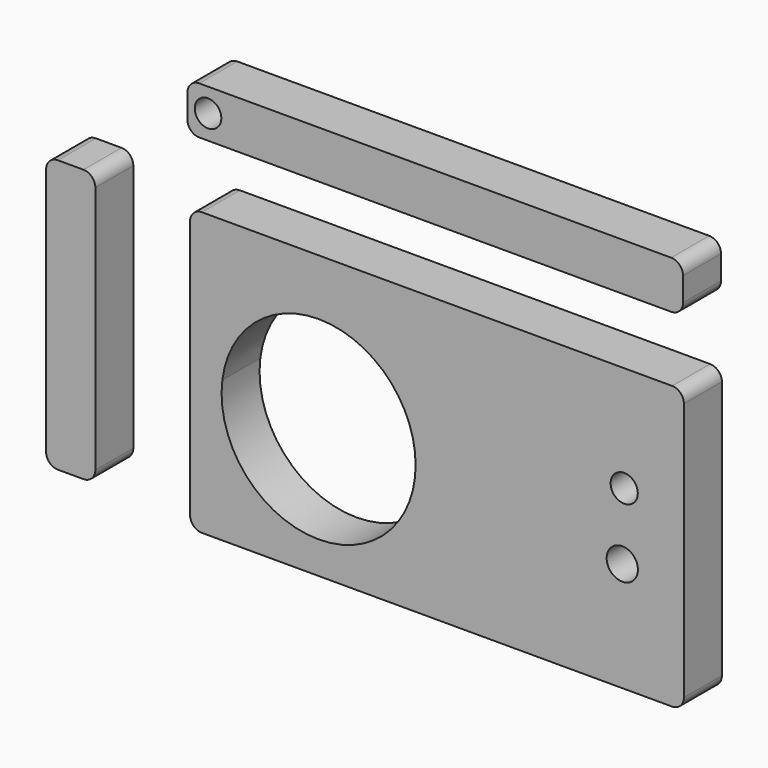
from build123d import *

# Parameters (mm, degrees)
F0_R     = 8.365548
F0_R_2   = 7.271705
F0_R_3   = 7.111959
F1_DEPTH = 25.4


with BuildPart() as f1:
    # F0 (on Front) → F1 (new body)
    with BuildSketch(Plane.XZ):
        with BuildLine():
            ThreePointArc((-102.131441, -52.164263), (-100.271569, -56.654392), (-95.781441, -58.514263))
            Line((-95.781441, -58.514263), (155.758898, -58.514263))
            ThreePointArc((155.758898, -58.514263), (160.249026, -56.654392), (162.108898, -52.164263))
            Line((162.108898, -52.164263), (162.108898, 86.172502))
            ThreePointArc((162.108898, 86.172502), (160.249026, 90.66263), (155.758898, 92.522502))
            Line((155.758898, 92.522502), (-95.781441, 92.522502))
            ThreePointArc((-95.781441, 92.522502), (-100.271569, 90.66263), (-102.131441, 86.172502))
            Line((-102.131441, 86.172502), (-102.131441, 17.004119))
            Line((-102.131441, 17.004119), (-102.131441, -52.164263))
        make_face()
        with BuildLine():
            ThreePointArc((18.548641, 10.627234), (-36.553258, -41.181775), (-84.872968, 17.004119))
            ThreePointArc((-84.872968, 17.004119), (-30.164263, 62.436244), (18.548641, 10.627234))
        make_face(mode=Mode.SUBTRACT)
        with Locations((129.1098, 0)):
            Circle(F0_R, mode=Mode.SUBTRACT)
        with Locations((130.15075, 35.959888)):
            Circle(F0_R_2, mode=Mode.SUBTRACT)
        with BuildLine():
            ThreePointArc((-152.816415, 85.588384), (-154.676287, 90.078512), (-159.166415, 91.938384))
            Line((-159.166415, 91.938384), (-172.819238, 91.938384))
            ThreePointArc((-172.819238, 91.938384), (-177.309366, 90.078512), (-179.169238, 85.588384))
            Line((-179.169238, 85.588384), (-179.169238, -47.463491))
            ThreePointArc((-179.169238, -47.463491), (-177.309366, -51.953619), (-172.819238, -53.813491))
            Line((-172.819238, -53.813491), (-159.166415, -53.813491))
            ThreePointArc((-159.166415, -53.813491), (-154.676287, -51.953619), (-152.816415, -47.463491))
            Line((-152.816415, -47.463491), (-152.816415, 85.588384))
        make_face()
        with BuildLine():
            ThreePointArc((-103.560165, 133.622427), (-101.700293, 129.132299), (-97.210165, 127.272427))
            Line((-97.210165, 127.272427), (155.274894, 127.272427))
            ThreePointArc((155.274894, 127.272427), (159.765022, 129.132299), (161.624894, 133.622427))
            Line((161.624894, 133.622427), (161.624894, 146.402861))
            ThreePointArc((161.624894, 146.402861), (159.765022, 150.892989), (155.274894, 152.752861))
            Line((155.274894, 152.752861), (-97.210165, 152.752861))
            ThreePointArc((-97.210165, 152.752861), (-101.700293, 150.892989), (-103.560165, 146.402861))
            Line((-103.560165, 146.402861), (-103.560165, 133.622427))
        make_face()
        with Locations((-92.516921, 140.155822)):
            Circle(F0_R_3, mode=Mode.SUBTRACT)
    extrude(amount=F1_DEPTH)


solid = f1.part
